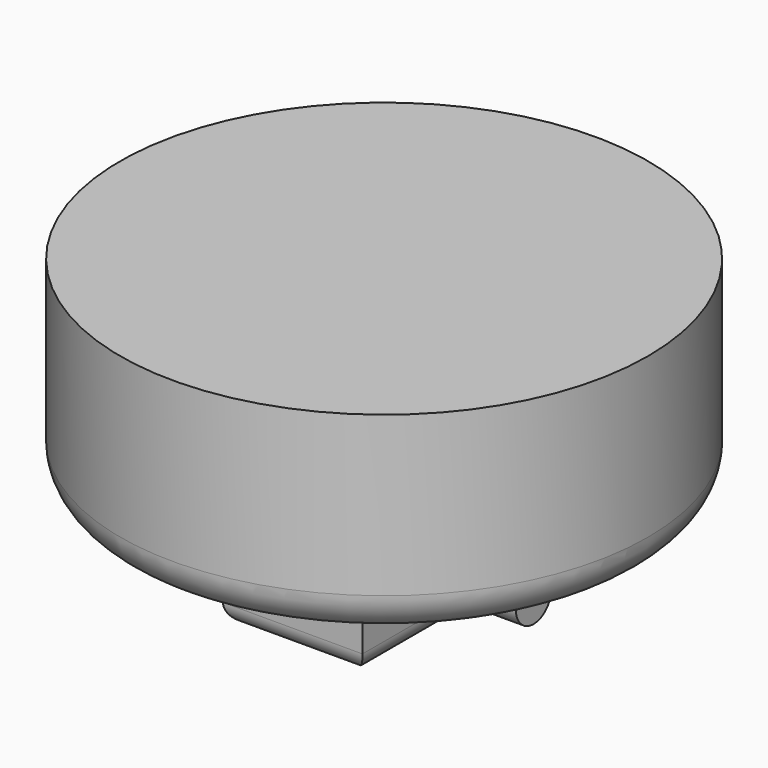
from build123d import *

# Parameters (mm, degrees)
F0_R     = 13.25
F1_DEPTH = 10
F2_W     = 6.9995252416
F2_H     = 11.4660244435
F3_DEPTH = 5
F4_R     = 1.115966898
F5_DEPTH = 7.5
F6_R     = 2
F7_R     = 1


with BuildPart() as f1:
    # F0 (on Top) → F1 (new body)
    with BuildSketch(Plane.XY):
        Circle(F0_R)
    extrude(amount=F1_DEPTH)

    # F2 (on face) → F3 (join)
    with BuildSketch(Plane(origin=(0, 0, 0), x_dir=(1, 0, 0), z_dir=(0, 0, -1))):
        Rectangle(F2_W, F2_H)
    extrude(amount=F3_DEPTH)

    # F4 (on Right) → F5 (join, symmetric)
    with BuildSketch(Plane.YZ):
        with Locations((0, -2.5976826437)):
            Circle(F4_R)
    extrude(amount=F5_DEPTH, both=True)

    # F6
    f6_edges = [f1.edges().sort_by_distance(p)[0] for p in [
        (-13.25, 0, 0),
    ]]
    fillet(f6_edges, radius=F6_R)

    # F7
    f7_edges = [f1.edges().sort_by_distance(p)[0] for p in [
        (0, 5.733012, -5),
        (3.499763, 0, -5),
        (0, -5.733012, -5),
        (-3.499763, 0, -5),
    ]]
    fillet(f7_edges, radius=F7_R)


solid = f1.part
